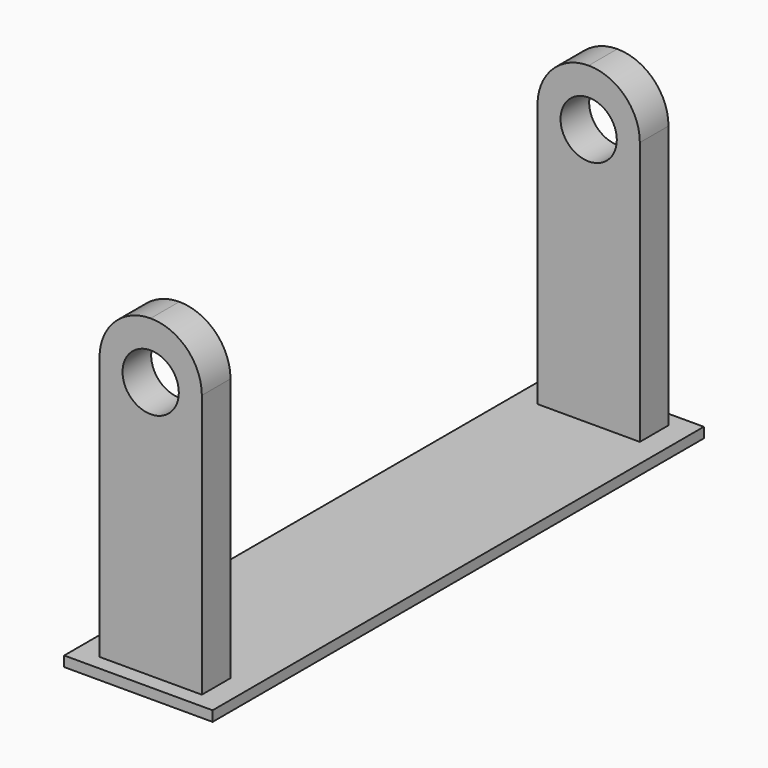
from build123d import *

# Parameters (mm, degrees)
F0_R     = 2.75
F1_DEPTH = 3.5
F2_W     = 14.5
F2_H     = 30
F2_W_2   = 10
F2_H_2   = 3.5
F3_DEPTH = 1


with BuildPart() as f1:
    # F0 (on Front) → F1 (new body)
    with BuildSketch(Plane.XZ):
        with BuildLine():
            Line((0, 25.75), (0, 0))
            Line((0, 0), (10, 0))
            Line((10, 0), (10, 25.75))
            ThreePointArc((10, 25.75), (8.535534, 29.285534), (5, 30.75))
            ThreePointArc((5, 30.75), (1.464466, 29.285534), (0, 25.75))
        make_face()
        with Locations((5, 25.25)):
            Circle(F0_R, mode=Mode.SUBTRACT)
    extrude(amount=F1_DEPTH)

    # F2 (on face) → F3 (join)
    with BuildSketch(Plane(origin=(0, 0, 0), x_dir=(1, 0, 0), z_dir=(0, 0, -1))):
        with Locations((5, 13.5)):
            Rectangle(F2_W, F2_H)
        with Locations((5, 1.75)):
            Rectangle(F2_W_2, F2_H_2, mode=Mode.SUBTRACT)
        with Locations((5, 1.75)):
            Rectangle(F2_W_2, F2_H_2)
    extrude(amount=F3_DEPTH)

    # F4: F1 across face


with BuildPart() as f1_1:
    add(f1.part)
    add(f1.part.mirror(Plane(origin=(5, -28.5, -0.5), x_dir=(1, 0, 0), z_dir=(0, -1, 0))))


solid = f1_1.part
